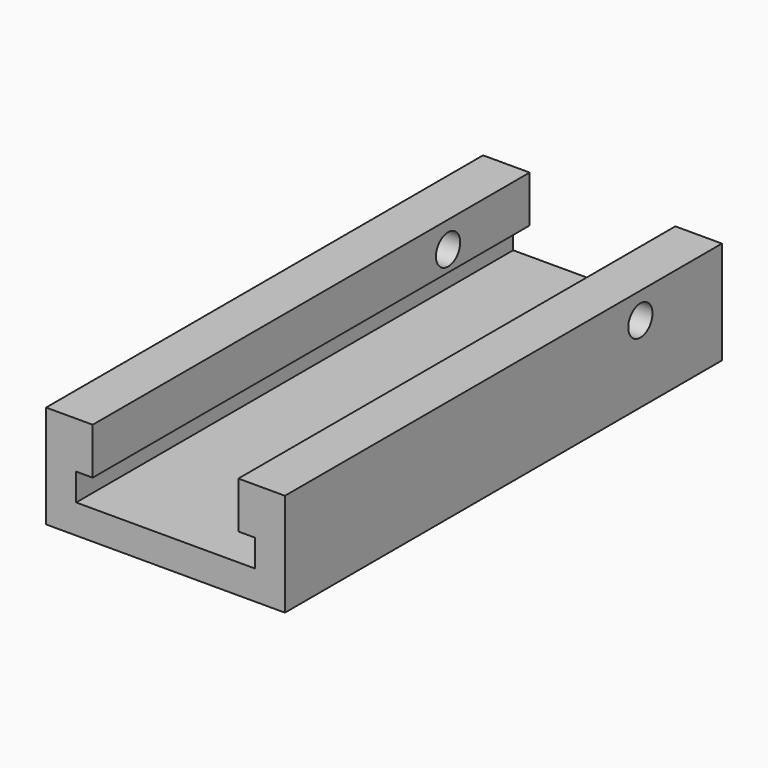
from build123d import *

# Parameters (mm, degrees)
F1_DEPTH = 71.4375
F2_R     = 1.9812
F3_DEPTH = 6.096
F4_R     = 1.9812
F5_DEPTH = 6.096


with BuildPart() as f1:
    # F0 (on Front) → F1 (new body)
    with BuildSketch(Plane.XZ):
        Polygon((3.181334, 6.092442), (3.181334, 12.188442), (-2.914666, 12.188442), (-2.914666, -1.273558), (28.327334, -1.273558), (28.327334, 12.188442), (22.231334, 12.188442), (22.231334, 6.092442), (24.390334, 6.092442), (24.390334, 2.536442), (1.022334, 2.536442), (1.022334, 6.092442), align=None)
    extrude(amount=F1_DEPTH)

    # F2 (on face) → F3 (cut, through all)
    with BuildSketch(Plane.YZ.offset(28.327334)):
        with Locations((-13.335, 8.759442)):
            Circle(F2_R)
    extrude(amount=-F3_DEPTH, mode=Mode.SUBTRACT)

    # F4 (on face) → F5 (cut, through all)
    with BuildSketch(Plane(origin=(-2.914666, 0, 0), x_dir=(0, -1, 0), z_dir=(-1, 0, 0))):
        with Locations((13.335, 8.759442)):
            Circle(F4_R)
    extrude(amount=-F5_DEPTH, mode=Mode.SUBTRACT)


solid = f1.part
